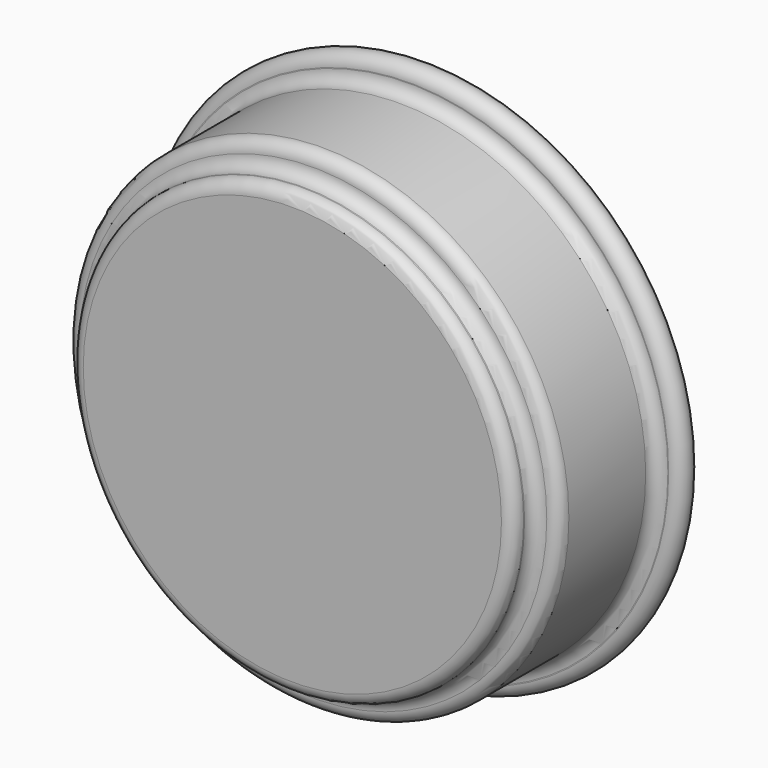
from build123d import *


with BuildPart() as f1:
    # F0 (on Top) → F1 (revolve)
    with BuildSketch(Plane.XY):
        with BuildLine():
            Line((0, 1.077133), (0, 0))
            Line((0, 0), (8.5, 0))
            ThreePointArc((8.5, 0), (8.853553, 0.146447), (9, 0.5))
            Line((9, 0.5), (9, 0.551621))
            ThreePointArc((9, 0.551621), (9.146447, 0.905175), (9.5, 1.051621))
            ThreePointArc((9.5, 1.051621), (9.853553, 1.198068), (10, 1.551621))
            Line((10, 1.551621), (10, 5.45433))
            ThreePointArc((10, 5.45433), (10.146447, 5.807883), (10.5, 5.95433))
            Line((10.5, 5.95433), (10.535076, 5.95433))
            ThreePointArc((10.535076, 5.95433), (11.035076, 6.45433), (10.535076, 6.95433))
            Line((10.535076, 6.95433), (9.5, 6.95433))
            ThreePointArc((9.5, 6.95433), (9.146447, 6.807883), (9, 6.45433))
            Line((9, 6.45433), (9, 2.577133))
            ThreePointArc((9, 2.577133), (8.853553, 2.22358), (8.5, 2.077133))
            Line((8.5, 2.077133), (8.439674, 2.077133))
            ThreePointArc((8.439674, 2.077133), (8.086121, 1.930686), (7.939674, 1.577133))
            ThreePointArc((7.939674, 1.577133), (7.793227, 1.22358), (7.439674, 1.077133))
            Line((7.439674, 1.077133), (0, 1.077133))
        make_face()
    revolve(axis=Axis((0, 0.538567, 0), (0, -1, 0)))


solid = f1.part
